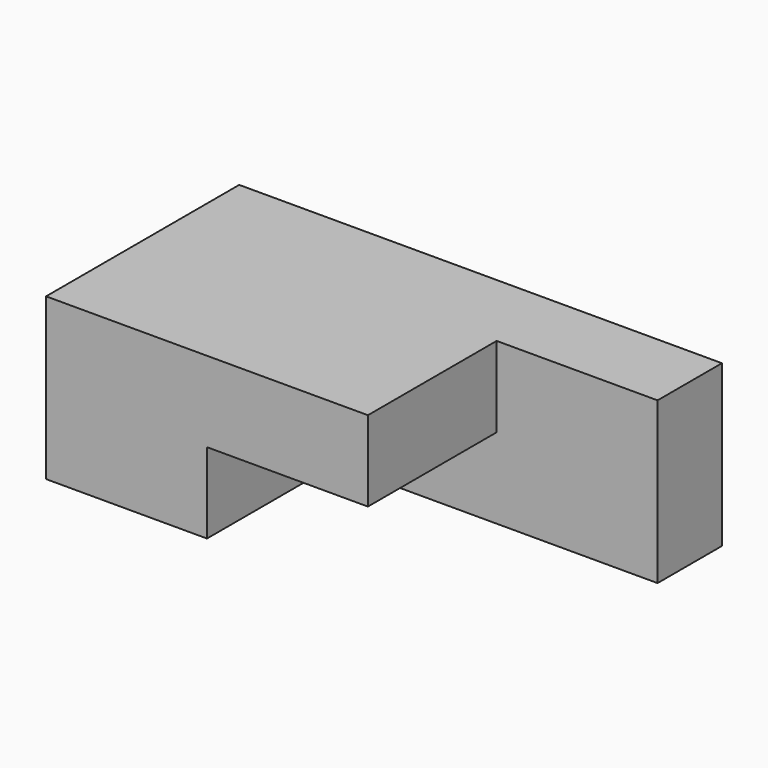
from build123d import *

# Parameters (mm, degrees)
F0_W     = 152.4
F0_H     = 50.8
F1_DEPTH = 76.2
F3_DEPTH = 50.8


with BuildPart() as f1:
    # F0 (on Front) → F1 (new body)
    with BuildSketch(Plane.XZ):
        with Locations((76.2, 25.4)):
            Rectangle(F0_W, F0_H)
    extrude(amount=-F1_DEPTH)

    # F2 (on Front) → F3 (cut)
    with BuildSketch(Plane.XZ):
        Polygon((50.8, 25.4), (50.8, 0), (152.4, 0), (152.4, 50.8), (101.6, 50.8), (101.6, 25.4), align=None)
    extrude(amount=-F3_DEPTH, mode=Mode.SUBTRACT)


solid = f1.part
